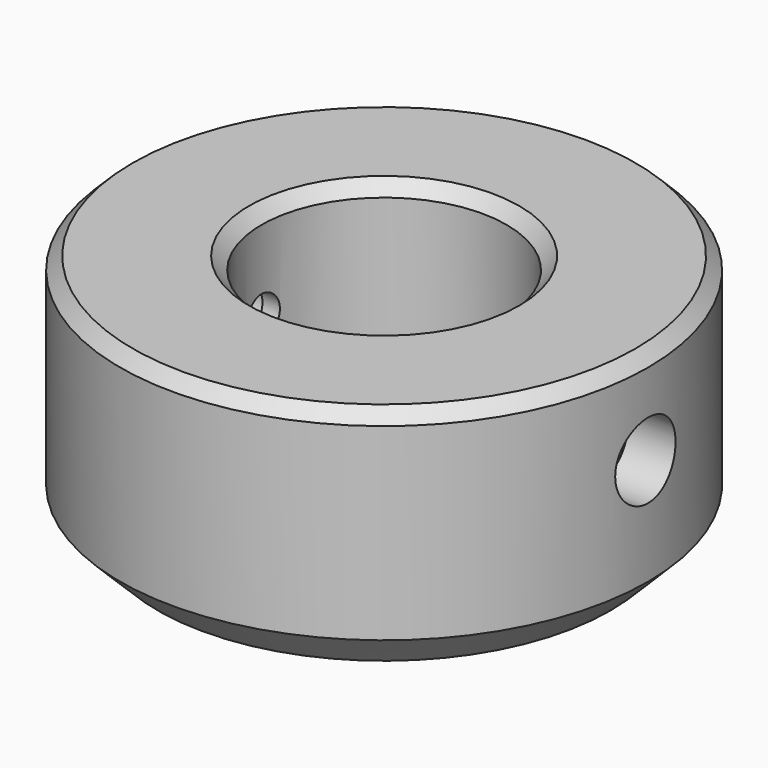
from build123d import *

# Parameters (mm, degrees)
CYLINDER035009009_R     = 3
CYLINDER035009009_DEPTH = 35
CYLINDER035009013_R     = 2.1
CYLINDER035009013_DEPTH = 35
CYLINDER035009014_R     = 2.1
CYLINDER035009014_DEPTH = 35
CYLINDER035009011_R     = 1.65
CYLINDER035009011_DEPTH = 35
CYLINDER035009012_R     = 1.65
CYLINDER035009012_DEPTH = 35
CYLINDER035009010_R     = 3
CYLINDER035009010_DEPTH = 35
CYLINDER035009007_R     = 9.75
CYLINDER035009007_DEPTH = 20
CYLINDER035009008_R     = 21
CYLINDER035009008_DEPTH = 19
CHAMFER023_SIZE         = 3
CHAMFER024_SIZE         = 1


with BuildPart() as cylinder053:
    # Cylinder035009009 → Cylinder035009009 (new body)
    with BuildSketch(Plane(origin=(-17, 0, 12), x_dir=(0, 0, 1), z_dir=(-1, 0, 0))):
        Circle(CYLINDER035009009_R)
    extrude(amount=CYLINDER035009009_DEPTH)


with BuildPart() as cylinder057:
    # Cylinder035009013 → Cylinder035009013 (new body)
    with BuildSketch(Plane(origin=(11, 0, 12), x_dir=(0, 0, -1), z_dir=(1, 0, 0))):
        Circle(CYLINDER035009013_R)
    extrude(amount=CYLINDER035009013_DEPTH)


with BuildPart() as fusion003012002009:
    # Cylinder035009014 → Cylinder035009014 (new body)
    with BuildSketch(Plane(origin=(-11, 0, 12), x_dir=(0, 0, 1), z_dir=(-1, 0, 0))):
        Circle(CYLINDER035009014_R)
    extrude(amount=CYLINDER035009014_DEPTH)

    # Fusion003012002009: union Cylinder057
    add(cylinder057.part)


with BuildPart() as cylinder055:
    # Cylinder035009011 → Cylinder035009011 (new body)
    with BuildSketch(Plane(origin=(0, 0, 12), x_dir=(0, 0, -1), z_dir=(1, 0, 0))):
        Circle(CYLINDER035009011_R)
    extrude(amount=CYLINDER035009011_DEPTH)


with BuildPart() as fusion003012002008:
    # Cylinder035009012 → Cylinder035009012 (new body)
    with BuildSketch(Plane(origin=(0, 0, 12), x_dir=(0, 0, 1), z_dir=(-1, 0, 0))):
        Circle(CYLINDER035009012_R)
    extrude(amount=CYLINDER035009012_DEPTH)

    # Fusion003012002008: union Cylinder055
    add(cylinder055.part)


with BuildPart() as fusion003012002010:
    # Cylinder035009010 → Cylinder035009010 (new body)
    with BuildSketch(Plane(origin=(17, 0, 12), x_dir=(0, 0, -1), z_dir=(1, 0, 0))):
        Circle(CYLINDER035009010_R)
    extrude(amount=CYLINDER035009010_DEPTH)

    # Fusion003012002010: union Cylinder053, Fusion003012002009, Fusion003012002008
    add(cylinder053.part)
    add(fusion003012002009.part)
    add(fusion003012002008.part)


with BuildPart() as fusion003012002010_1:
    # Fusion003012002010 placement: moved
    add(fusion003012002010.part.moved(Location((0, 0, -0.5))))


with BuildPart() as cylinder051:
    # Cylinder035009007 → Cylinder035009007 (new body)
    with BuildSketch(Plane.XY.offset(4)):
        Circle(CYLINDER035009007_R)
    extrude(amount=CYLINDER035009007_DEPTH)


with BuildPart() as chamfer024:
    # Cylinder035009008 → Cylinder035009008 (new body)
    with BuildSketch(Plane.XY):
        Circle(CYLINDER035009008_R)
    extrude(amount=CYLINDER035009008_DEPTH)

    # Cut048003: cut Cylinder051
    add(cylinder051.part, mode=Mode.SUBTRACT)

    # Cut048004: cut Fusion003012002010
    add(fusion003012002010_1.part, mode=Mode.SUBTRACT)

    # Chamfer023
    chamfer023_edges = [chamfer024.edges().sort_by_distance(p)[0] for p in [
        (-21, 0, 0),
    ]]
    chamfer(chamfer023_edges, length=CHAMFER023_SIZE)

    # Chamfer024
    chamfer024_edges = [chamfer024.edges().sort_by_distance(p)[0] for p in [
        (-21, 0, 19),
        (-9.75, 0, 19),
    ]]
    chamfer(chamfer024_edges, length=CHAMFER024_SIZE)


solid = chamfer024.part
